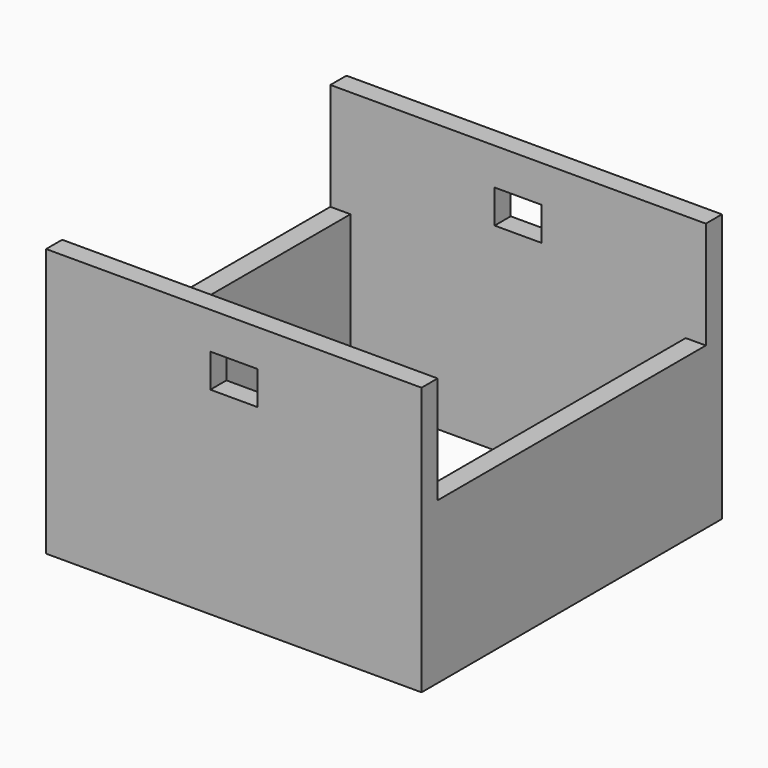
from build123d import *

# Parameters (mm, degrees)
F0_W     = 88.9
F0_H     = 88.9
F0_W_2   = 79.375
F0_H_2   = 79.375
F1_DEPTH = 63.5
F3_W     = 5.55625
F3_H     = 7.9375
F4_DEPTH = 88.901
F2_W     = 79.375
F2_H     = 25.4
F5_DEPTH = 88.901


with BuildPart() as f1:
    # F0 (on Top) → F1 (new body)
    with BuildSketch(Plane.XY):
        Rectangle(F0_W, F0_H)
        Rectangle(F0_W_2, F0_H_2, mode=Mode.SUBTRACT)
    extrude(amount=F1_DEPTH)

    # F3 (on face) → F4 (cut, through all)
    with BuildSketch(Plane(origin=(0, 44.45, 0), x_dir=(-1, 0, 0), z_dir=(0, 1, 0))):
        with Locations((2.778125, 50.8)):
            Rectangle(F3_W, F3_H)
        with Locations((-2.778125, 50.8)):
            Rectangle(F3_W, F3_H)
    extrude(amount=-F4_DEPTH, mode=Mode.SUBTRACT)

    # F2 (on face) → F5 (cut, through all)
    with BuildSketch(Plane(origin=(-44.45, 0, 0), x_dir=(0, -1, 0), z_dir=(-1, 0, 0))):
        with Locations((0, 50.8)):
            Rectangle(F2_W, F2_H)
    extrude(amount=-F5_DEPTH, mode=Mode.SUBTRACT)


solid = f1.part
